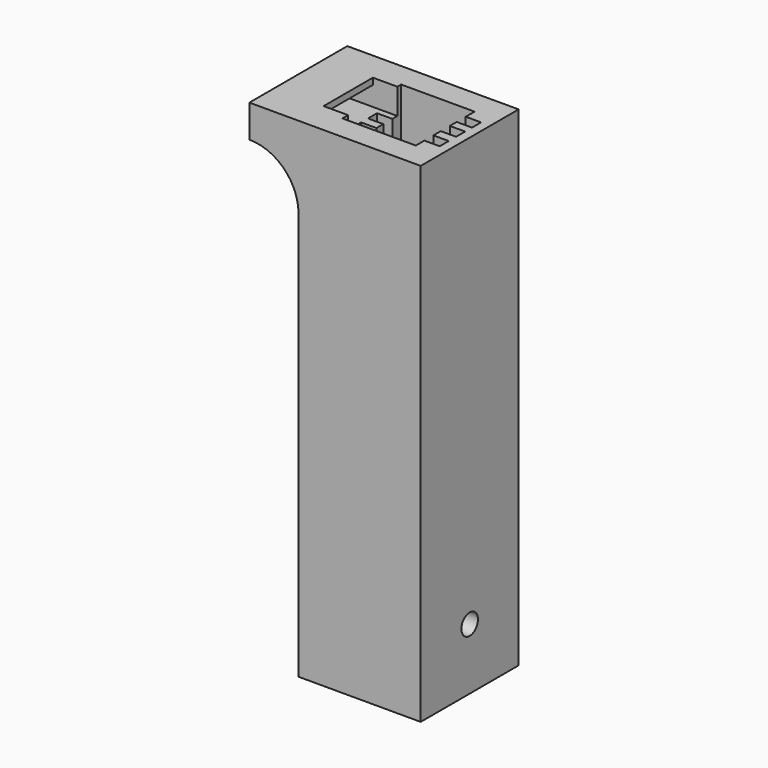
from build123d import *

# Parameters (mm, degrees)
F0_W      = 25.4
F0_H      = 25.4
F1_DEPTH  = 101.6
F2_W      = 15.24
F2_H      = 15.24
F3_DEPTH  = 76.2
F6_START  = -3.175
F5_W      = 3.175
F5_H      = 15.24
F6_DEPTH  = 12.065
F4_R      = 2.15
F7_DEPTH  = 6.6675
F8_R      = 2.15
F9_DEPTH  = 6.6675
F10_W     = 1.27
F10_H     = 1.27
F12_DEPTH = 3.175
F11_W     = 1.27
F11_H     = 1.27
F13_DEPTH = 3.175
F14_W     = 12.7794421278
F14_H     = 4.0193349123
F15_DEPTH = 5.08
F16_W     = 25.4
F16_H     = 6.7783382893
F16_W_2   = 12.7794421278
F16_H_2   = 4.0193349123
F17_DEPTH = 5.08
F18_W     = 25.4
F18_H     = 6.7783382893
F19_DEPTH = 5.08
F20_R     = 2.15
F21_DEPTH = 5.08
F23_DEPTH = 25.4
F24_W     = 21.59
F24_H     = 2.35
F25_DEPTH = 77.47
F26_W     = 12.7794421278
F26_H     = 1.3284322977
F27_DEPTH = 5.08


with BuildPart() as f1:
    # F0 (on Top) → F1 (new body)
    with BuildSketch(Plane.XY):
        with Locations((12.7, 12.7)):
            Rectangle(F0_W, F0_H)
    extrude(amount=F1_DEPTH)

    # F2 (on face) → F3 (cut)
    with BuildSketch(Plane.XY.offset(101.6)):
        with Locations((12.7, 12.7)):
            Rectangle(F2_W, F2_H)
    extrude(amount=-F3_DEPTH, mode=Mode.SUBTRACT)

    # F5 (on face) → F6 (cut)
    with BuildSketch(Plane.XY.offset(25.4).offset(F6_START)):
        with Locations((17.145, 12.7)):
            Rectangle(F5_W, F5_H)
        with Locations((8.255, 12.7)):
            Rectangle(F5_W, F5_H)
    extrude(amount=-F6_DEPTH, mode=Mode.SUBTRACT)

    # F4 (on face) → F7 (cut, through all)
    with BuildSketch(Plane.YZ.offset(25.4)):
        with Locations((12.7, 12.7)):
            Circle(F4_R)
    extrude(amount=-F7_DEPTH, mode=Mode.SUBTRACT)

    # F8 (on face) → F9 (cut, through all)
    with BuildSketch(Plane(origin=(0, 0, 0), x_dir=(0, -1, 0), z_dir=(-1, 0, 0))):
        with Locations((-12.7, 12.7)):
            Circle(F8_R)
    extrude(amount=-F9_DEPTH, mode=Mode.SUBTRACT)

    # F10 (on face) → F12 (cut, through all)
    with BuildSketch(Plane.XY.offset(25.4)):
        with Locations((17.2085, 18.923)):
            Rectangle(F10_W, F10_H)
        with Locations((17.2085, 10.541)):
            Rectangle(F10_W, F10_H)
    extrude(amount=-F12_DEPTH, mode=Mode.SUBTRACT)

    # F11 (on face) → F13 (cut, through all)
    with BuildSketch(Plane.XY.offset(25.4)):
        with Locations((8.1467080774, 6.477)):
            Rectangle(F11_W, F11_H)
        with Locations((8.1467080774, 14.859)):
            Rectangle(F11_W, F11_H)
    extrude(amount=-F13_DEPTH, mode=Mode.SUBTRACT)

    # F14 (on face) → F15 (cut, through all)
    with BuildSketch(Plane(origin=(0, 0, 0), x_dir=(0, -1, 0), z_dir=(-1, 0, 0))):
        with Locations((-12.943365844, 98.2619002461)):
            Rectangle(F14_W, F14_H)
    extrude(amount=-F15_DEPTH, mode=Mode.SUBTRACT)

    # F16 (on face) → F17 (join)
    with BuildSketch(Plane(origin=(0, 0, 0), x_dir=(0, -1, 0), z_dir=(-1, 0, 0))):
        with Locations((-12.7, 98.2108308554)):
            Rectangle(F16_W, F16_H)
        with Locations((-12.943365844, 98.2619002461)):
            Rectangle(F16_W_2, F16_H_2, mode=Mode.SUBTRACT)
    extrude(amount=F17_DEPTH)

    # F18 (on face) → F19 (join)
    with BuildSketch(Plane(origin=(-5.08, 0, 0), x_dir=(0, -1, 0), z_dir=(-1, 0, 0))):
        with Locations((-12.7, 98.2108308554)):
            Rectangle(F18_W, F18_H)
    extrude(amount=F19_DEPTH)

    # F20 (on face) → F21 (cut)
    with BuildSketch(Plane(origin=(-10.16, 0, 0), x_dir=(0, -1, 0), z_dir=(-1, 0, 0))):
        with Locations((-12.7924755216, 98.2300043106)):
            Circle(F20_R)
    extrude(amount=-F21_DEPTH, mode=Mode.SUBTRACT)

    # F22 (on face) → F23 (join, through all)
    with BuildSketch(Plane.XZ):
        with BuildLine():
            ThreePointArc((-10.16, 94.8216617107), (-3.2465860676, 92.1186283067), (0, 85.4431986809))
            Line((0, 85.4431986809), (0, 94.8216617107))
            Line((0, 94.8216617107), (-10.16, 94.8216617107))
        make_face()
    extrude(amount=-F23_DEPTH)

    # F24 (on face) → F25 (cut)
    with BuildSketch(Plane.XY.offset(101.6)):
        with Locations((12.7, 16.859)):
            Rectangle(F24_W, F24_H)
        with Locations((12.7, 8.476)):
            Rectangle(F24_W, F24_H)
        with Locations((12.7, 12.731)):
            Rectangle(F24_W, F24_H)
    extrude(amount=-F25_DEPTH, mode=Mode.SUBTRACT)

    # F26 (on face) → F27 (cut)
    with BuildSketch(Plane.YZ.offset(5.08)):
        with Locations((12.943365844, 100.9357838511)):
            Rectangle(F26_W, F26_H)
    extrude(amount=-F27_DEPTH, mode=Mode.SUBTRACT)


solid = f1.part
